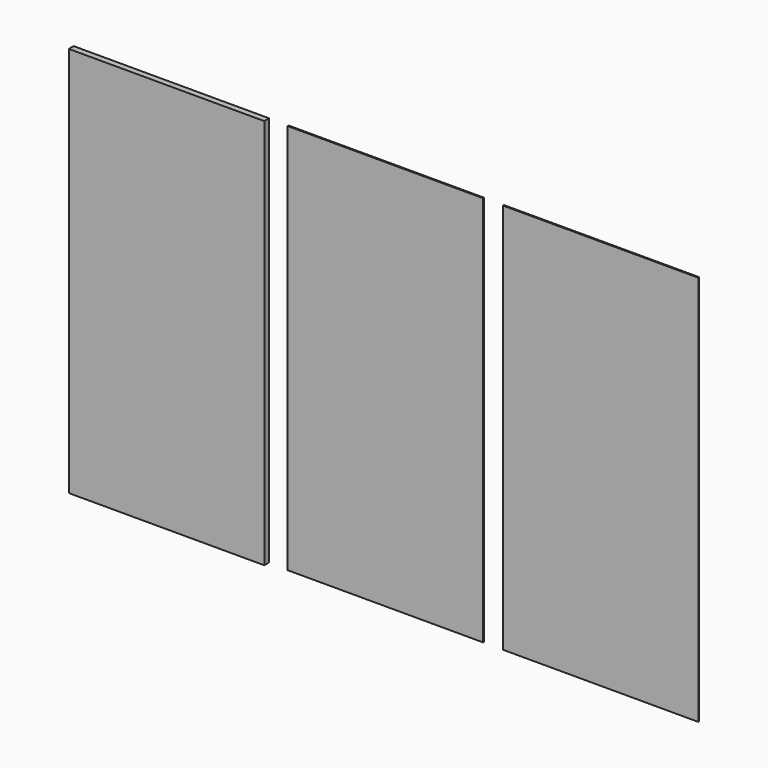
from build123d import *

# Parameters (mm, degrees)
F0_W     = 100
F0_H     = 200
F1_DEPTH = 1.5
F2_W     = 100
F2_H     = 200
F3_DEPTH = 0.1
F5_DEPTH = 2.5


with BuildPart() as f1:
    # F0 (on Front) → F1 (new body, symmetric)
    with BuildSketch(Plane.XZ):
        Rectangle(F0_W, F0_H)
    extrude(amount=F1_DEPTH, both=True)

    # F2 (on face) → F3 (join)
    with BuildSketch(Plane.XZ.offset(1.5)):
        Rectangle(F2_W, F2_H)
    extrude(amount=F3_DEPTH)


with BuildPart() as f4_1:
    # F4: copy of F1
    add(f1.part.moved(Location((110, 0, 0))))

    # F5 (cut): a face of the model
    f5_faces = [f4_1.faces().sort_by_distance(p)[0] for p in [
        (110, -1.6, 0),
    ]]
    extrude(f5_faces, amount=-F5_DEPTH, mode=Mode.SUBTRACT)


with BuildPart() as f6_1:
    # F6: copy of F4_1
    add(f4_1.part.moved(Location((110, 0, 0))))


solid = Compound([f1.part, f4_1.part, f6_1.part])
